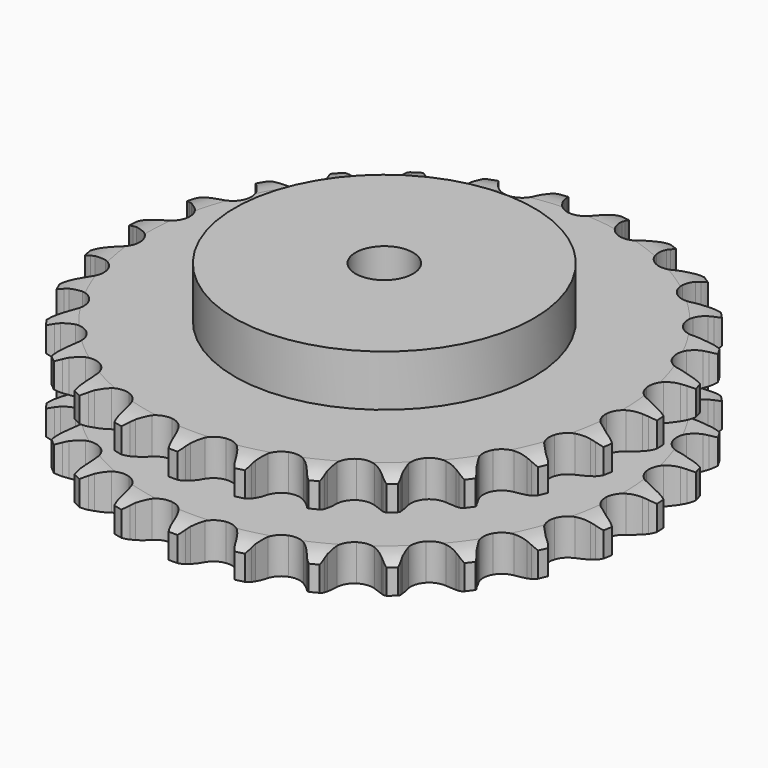
from build123d import *

# Parameters (mm, degrees)
PAD_DEPTH         = 47.7
SKETCH001_R       = 65
PAD001_DEPTH      = 70
SKETCH002_R       = 12.5
POCKET_DEPTH      = 0.0010001
POCKET_DEPTH_BACK = 70.001


with BuildPart() as part:
    # Sprocket → Pad (new body)
    with BuildSketch(Plane.XY):
        with BuildLine():
            ThreePointArc((-13.6413472436, 116.7091844985), (-11.482431054, 114.3511808054), (-9.9639848088, 111.5377449111))
            Line((-9.9639848088, 111.5377449111), (-9.1906695112, 109.5539148356))
            ThreePointArc((-9.1906695112, 109.5539148356), (-7.9619149576, 106.951852902), (-6.3845369677, 104.5451034891))
            ThreePointArc((-6.3845369677, 104.5451034891), (-3.5636031701, 102.2128059259), (0, 101.3773348857))
            ThreePointArc((0, 101.3773348857), (3.5636031701, 102.2128059259), (6.3845369677, 104.5451034891))
            ThreePointArc((6.3845369677, 104.5451034891), (7.9619149576, 106.951852902), (9.1906695112, 109.5539148356))
            Line((9.1906695112, 109.5539148356), (9.9639848088, 111.5377449111))
            ThreePointArc((9.9639848088, 111.5377449111), (11.482431054, 114.3511808054), (13.6413472436, 116.7091844985))
            ThreePointArc((13.6413472436, 116.7091844985), (15.198276493, 113.9168607632), (16.0269698546, 110.8290835946))
            Line((16.0269698546, 110.8290835946), (16.321937638, 108.7203891348))
            ThreePointArc((16.321937638, 108.7203891348), (16.917494175, 105.905095816), (17.8973191255, 103.1994522464))
            ThreePointArc((17.8973191255, 103.1994522464), (20.1043494541, 100.2794699619), (23.3792223582, 98.6446957036))
            ThreePointArc((23.3792223582, 98.6446957036), (27.0394410251, 98.6358230657), (30.3222010205, 100.2547011422))
            Line((30.3222010205, 100.2547011422), (34.2078052881, 104.4813606307))
            ThreePointArc((34.2078052881, 104.4813606307), (34.7902739113, 105.3729203788), (35.4177784721, 106.2333775291))
            ThreePointArc((35.4177784721, 106.2333775291), (37.5441177708, 108.6207990916), (40.1886331699, 110.4173621532))
            ThreePointArc((40.1886331699, 110.4173621532), (41.0596410203, 107.3412532709), (41.1539064247, 104.1455976944))
            Line((41.1539064247, 104.1455976944), (40.9546249044, 102.0257191144))
            ThreePointArc((40.9546249044, 102.0257191144), (40.8848768178, 99.1489676021), (41.2143261122, 96.2902918209))
            ThreePointArc((41.2143261122, 96.2902918209), (42.6884713955, 92.9400418158), (45.4980647876, 90.5940954428))
            ThreePointArc((45.4980647876, 90.5940954428), (49.0575756156, 89.7413574531), (52.6251873676, 90.5595419068))
            Line((52.6251873676, 90.5595419068), (57.3807894276, 93.7761892302))
            ThreePointArc((57.3807894276, 93.7761892302), (58.1531653612, 94.5093903612), (58.9621905304, 95.2019412669))
            ThreePointArc((58.9621905304, 95.2019412669), (61.5817913805, 97.0346419834), (64.5693394797, 98.1729112337))
            ThreePointArc((64.5693394797, 98.1729112337), (64.7074696723, 94.9788510306), (64.0622252471, 91.8475956654))
            Line((64.0622252471, 91.8475956654), (63.3794377414, 89.8308161682))
            ThreePointArc((63.3794377414, 89.8308161682), (62.6481451686, 87.047692881), (62.3094581102, 84.1900968396))
            ThreePointArc((62.3094581102, 84.1900968396), (62.9712467945, 80.5901919588), (65.1640947676, 77.6595440474))
            ThreePointArc((65.1640947676, 77.6595440474), (68.4310036065, 76.0089120316), (72.0911362422, 75.9822943267))
            Line((72.0911362422, 75.9822943267), (77.4603603565, 78.0155191953))
            ThreePointArc((77.4603603565, 78.0155191953), (78.3810046142, 78.5508346463), (79.3279356354, 79.038143709))
            ThreePointArc((79.3279356354, 79.038143709), (82.2995746771, 80.2173222094), (85.4690959849, 80.6359332584))
            ThreePointArc((85.4690959849, 80.6359332584), (84.8669018854, 77.4961143469), (83.5169329246, 74.5980659803))
            Line((83.5169329246, 74.5980659803), (82.3874486847, 72.7931106706))
            ThreePointArc((82.3874486847, 72.7931106706), (81.0340357975, 70.2536545052), (80.0454710933, 67.5511919458))
            ThreePointArc((80.0454710933, 67.5511919458), (79.8592259793, 63.8957039933), (81.3171115315, 60.5383465309))
            ThreePointArc((81.3171115315, 60.5383465309), (84.1152984802, 58.1788064882), (87.6706333019, 57.3088215922))
            Line((87.6706333019, 57.3088215922), (93.3640232088, 58.0490123269))
            ThreePointArc((93.3640232088, 58.0490123269), (94.3833036203, 58.3575831036), (95.417091197, 58.6133793654))
            ThreePointArc((95.417091197, 58.6133793654), (98.5805666005, 59.0754658316), (101.7611914027, 58.7518512494))
            ThreePointArc((101.7611914027, 58.7518512494), (100.4511374508, 55.8355420796), (98.4692211306, 53.3269352491))
            Line((98.4692211306, 53.3269352491), (96.9539309441, 51.8311097349))
            ThreePointArc((96.9539309441, 51.8311097349), (95.0513605817, 49.6722234305), (93.4662120107, 47.2705848092))
            ThreePointArc((93.4662120107, 47.2705848092), (92.4419736207, 43.7565820867), (93.0863017646, 40.1535110832))
            ThreePointArc((93.0863017646, 40.1535110832), (95.2649158405, 37.212266428), (98.5237838276, 35.5458154518))
            Line((98.5237838276, 35.5458154518), (104.2344074036, 34.9530681786))
            ThreePointArc((104.2344074036, 34.9530681786), (105.2973742979, 35.0182591505), (106.3622866744, 35.0287525688))
            ThreePointArc((106.3622866744, 35.0287525688), (109.5470546617, 34.7488357997), (112.5673146521, 33.7004417322))
            ThreePointArc((112.5673146521, 33.7004417322), (110.6200261955, 31.1648612863), (108.1130081376, 29.1809356355))
            Line((108.1130081376, 29.1809356355), (106.2936016908, 28.0748802574))
            ThreePointArc((106.2936016908, 28.0748802574), (103.9444419138, 26.4129499336), (101.8481652458, 24.4416082101))
            ThreePointArc((101.8481652458, 24.4416082101), (100.0411505366, 21.2585315139), (99.8371853751, 17.6039894596))
            ThreePointArc((99.8371853751, 17.6039894596), (101.2787769294, 14.2396034526), (104.0654916652, 11.8665251997))
            Line((104.0654916652, 11.8665251997), (109.4854877151, 9.9727950775))
            ThreePointArc((109.4854877151, 9.9727950775), (110.534836272, 9.7910917824), (111.5734637463, 9.5557166543))
            ThreePointArc((111.5734637463, 9.5557166543), (114.6078326509, 8.5488870355), (117.3049048316, 6.8322326781))
            ThreePointArc((117.3049048316, 6.8322326781), (114.8253606951, 4.8140747544), (111.9283948919, 3.4617842286))
            Line((111.9283948919, 3.4617842286), (109.9029568572, 2.8051267184))
            ThreePointArc((109.9029568572, 2.8051267184), (107.2338514773, 1.729747469), (104.7394575301, 0.2949781859))
            ThreePointArc((104.7394575301, 0.2949781859), (102.2470831323, -2.3855719954), (101.2058204802, -5.8945677923))
            ThreePointArc((101.2058204802, -5.8945677923), (101.832672939, -9.5007202306), (103.9970019108, -12.4524924975))
            Line((103.9970019108, -12.4524924975), (108.8341770447, -15.5451139875))
            ThreePointArc((108.8341770447, -15.5451139875), (109.8133366118, -15.963915878), (110.769686508, -16.4324704185))
            ThreePointArc((110.769686508, -16.4324704185), (113.4900727168, -18.1119344417), (115.7185572285, -20.404303808))
            ThreePointArc((115.7185572285, -20.404303808), (112.8404302781, -21.7962397937), (109.709692906, -22.4439928621))
            Line((109.709692906, -22.4439928621), (107.5874151722, -22.6158519282))
            ThreePointArc((107.5874151722, -22.6158519282), (104.7422563512, -23.0467061294), (101.9842185482, -23.8675541887))
            ThreePointArc((101.9842185482, -23.8675541887), (98.9408490107, -25.901068701), (97.118423607, -29.0753473688))
            ThreePointArc((97.118423607, -29.0753473688), (96.8967431921, -32.7288576271), (98.3220068648, -36.1001931009))
            Line((98.3220068648, -36.1001931009), (102.315587719, -40.2249819339))
            ThreePointArc((102.315587719, -40.2249819339), (103.1717715507, -40.8583047013), (103.9942867983, -41.5347787575))
            ThreePointArc((103.9942867983, -41.5347787575), (106.2540335868, -43.7963368449), (107.8937922525, -46.5408389945))
            ThreePointArc((107.8937922525, -46.5408389945), (104.7722430572, -47.2315134127), (101.5765129783, -47.1398084882))
            Line((101.5765129783, -47.1398084882), (99.4718080873, -46.8176041434))
            ThreePointArc((99.4718080873, -46.8176041434), (96.6039790737, -46.580705835), (93.7309839467, -46.7433805391))
            ThreePointArc((93.7309839467, -46.7433805391), (90.300688109, -48.0202320886), (87.795347379, -50.6886674428))
            ThreePointArc((87.795347379, -50.6886674428), (86.7370849389, -54.1925738373), (87.346446979, -57.80172295))
            Line((87.346446979, -57.80172295), (90.2811385761, -62.7363106923))
            ThreePointArc((90.2811385761, -62.7363106923), (90.9681895803, -63.5500117424), (91.6125281694, -64.3979364229))
            ThreePointArc((91.6125281694, -64.3979364229), (93.2898120032, -67.1196673927), (94.2524450089, -70.1683455041))
            ThreePointArc((94.2524450089, -70.1683455041), (91.0557570938, -70.1205239182), (87.9673169438, -69.294304837))
            Line((87.9673169438, -69.294304837), (85.993650081, -68.4954072009))
            ThreePointArc((85.993650081, -68.4954072009), (83.2577562794, -67.603527632), (80.4246877393, -67.0992591455))
            ThreePointArc((80.4246877393, -67.0992591455), (76.792393738, -67.5506123348), (73.7392012488, -69.5693483347))
            ThreePointArc((73.7392012488, -69.5693483347), (71.9014079856, -72.7347543648), (71.6620175277, -76.3871469535))
            Line((71.6620175277, -76.3871469535), (73.3796098841, -81.8655087025))
            ThreePointArc((73.3796098841, -81.8655087025), (73.8604889633, -82.8157212012), (74.2919144339, -83.789384667))
            ThreePointArc((74.2919144339, -83.789384667), (75.2963125073, -86.824559298), (75.5299240585, -90.0130583451))
            ThreePointArc((75.5299240585, -90.0130583451), (72.4304316966, -89.2293188293), (69.6157800833, -87.7131272759))
            Line((69.6157800833, -87.7131272759), (67.8795521403, -86.4806051269))
            ThreePointArc((67.8795521403, -86.4806051269), (65.4230862935, -84.9818257558), (62.7826757987, -83.8377993235))
            ThreePointArc((62.7826757987, -83.8377993235), (59.1442015435, -83.4393215852), (55.7077556926, -84.6995276505))
            ThreePointArc((55.7077556926, -84.6995276505), (53.1895075167, -87.3557854577), (52.1142701625, -90.8545200926))
            Line((52.1142701625, -90.8545200926), (52.5221674297, -96.5813159486))
            ThreePointArc((52.5221674297, -96.5813159486), (52.7709502683, -97.6168136939), (52.9662043616, -98.6637254955))
            ThreePointArc((52.9662043616, -98.6637254955), (53.2435693145, -101.8487167378), (52.735565352, -105.0051439118))
            ThreePointArc((52.735565352, -105.0051439118), (49.9003629787, -103.5277380661), (47.5112384992, -101.4033123197))
            Line((47.5112384992, -101.4033123197), (46.1060499737, -99.8036112458))
            ThreePointArc((46.1060499737, -99.8036112458), (44.0614407915, -97.7787316564), (41.756033555, -96.0566220392))
            ThreePointArc((41.756033555, -96.0566220392), (38.3075301349, -94.8297954114), (34.6730906076, -95.263533507))
            ThreePointArc((34.6730906076, -95.263533507), (31.6101469301, -97.2674435454), (29.7570290036, -100.4239025368))
            Line((29.7570290036, -100.4239025368), (28.8332413343, -106.0903994527))
            ThreePointArc((28.8332413343, -106.0903994527), (28.8365159851, -107.1553584932), (28.7850725022, -108.2190793445))
            ThreePointArc((28.7850725022, -108.2190793445), (28.3204515184, -111.3821834958), (27.0982186672, -114.3363749906))
            ThreePointArc((27.0982186672, -114.3363749906), (24.6801527763, -112.2449501467), (22.8453537498, -109.626818549))
            Line((22.8453537498, -109.626818549), (21.8469587189, -107.7461788492))
            ThreePointArc((21.8469587189, -107.7461788492), (20.3244316114, -105.3043608244), (18.4783127343, -103.0970073976))
            ThreePointArc((18.4783127343, -103.0970073976), (15.4056898612, -101.1079704213), (11.7691902331, -100.6918576141))
            ThreePointArc((11.7691902331, -100.6918576141), (8.3266751405, -101.9353885749), (5.7955787088, -104.5794064014))
            Line((5.7955787088, -104.5794064014), (3.5899077353, -109.8801220618))
            ThreePointArc((3.5899077353, -109.8801220618), (3.3474976611, -110.9171301801), (3.0521299336, -111.9403146145))
            ThreePointArc((3.0521299336, -111.9403146145), (1.8705708504, -114.9110079113), (0, -117.5037024988))
            ThreePointArc((0, -117.5037024988), (-1.8705708504, -114.9110079113), (-3.0521299336, -111.9403146145))
            Line((-3.0521299336, -111.9403146145), (-3.5899077353, -109.8801220618))
            ThreePointArc((-3.5899077353, -109.8801220618), (-4.5082729375, -107.1530046433), (-5.7955787088, -104.5794064014))
            ThreePointArc((-5.7955787088, -104.5794064014), (-8.3266751405, -101.9353885749), (-11.7691902331, -100.6918576141))
            ThreePointArc((-11.7691902331, -100.6918576141), (-15.4056898612, -101.1079704213), (-18.4783127343, -103.0970073976))
            Line((-18.4783127343, -103.0970073976), (-21.8469587189, -107.7461788492))
            ThreePointArc((-21.8469587189, -107.7461788492), (-22.3219851284, -108.6993306691), (-22.8453537498, -109.626818549))
            ThreePointArc((-22.8453537498, -109.626818549), (-24.6801527763, -112.2449501467), (-27.0982186672, -114.3363749906))
            ThreePointArc((-27.0982186672, -114.3363749906), (-28.3204515184, -111.3821834958), (-28.7850725022, -108.2190793445))
            Line((-28.7850725022, -108.2190793445), (-28.8332413343, -106.0903994527))
            ThreePointArc((-28.8332413343, -106.0903994527), (-29.0979353255, -103.2250022463), (-29.7570290036, -100.4239025368))
            ThreePointArc((-29.7570290036, -100.4239025368), (-31.6101469301, -97.2674435454), (-34.6730906076, -95.263533507))
            ThreePointArc((-34.6730906076, -95.263533507), (-38.3075301349, -94.8297954114), (-41.756033555, -96.0566220392))
            Line((-41.756033555, -96.0566220392), (-46.1060499737, -99.8036112458))
            ThreePointArc((-46.1060499737, -99.8036112458), (-46.7880839217, -100.6215221059), (-47.5112384992, -101.4033123197))
            ThreePointArc((-47.5112384992, -101.4033123197), (-49.9003629787, -103.5277380661), (-52.735565352, -105.0051439118))
            ThreePointArc((-52.735565352, -105.0051439118), (-53.2435693145, -101.8487167378), (-52.9662043616, -98.6637254955))
            Line((-52.9662043616, -98.6637254955), (-52.5221674297, -96.5813159486))
            ThreePointArc((-52.5221674297, -96.5813159486), (-52.1189204884, -93.7321132595), (-52.1142701625, -90.8545200926))
            ThreePointArc((-52.1142701625, -90.8545200926), (-53.1895075167, -87.3557854577), (-55.7077556926, -84.6995276505))
            ThreePointArc((-55.7077556926, -84.6995276505), (-59.1442015435, -83.4393215852), (-62.7826757987, -83.8377993235))
            Line((-62.7826757987, -83.8377993235), (-67.8795521403, -86.4806051269))
            ThreePointArc((-67.8795521403, -86.4806051269), (-68.7318250001, -87.1191812411), (-69.6157800833, -87.7131272759))
            ThreePointArc((-69.6157800833, -87.7131272759), (-72.4304316966, -89.2293188293), (-75.5299240585, -90.0130583451))
            ThreePointArc((-75.5299240585, -90.0130583451), (-75.2963125073, -86.824559298), (-74.2919144339, -83.789384667))
            Line((-74.2919144339, -83.789384667), (-73.3796098841, -81.8655087025))
            ThreePointArc((-73.3796098841, -81.8655087025), (-72.3301611572, -79.1861017852), (-71.6620175277, -76.3871469535))
            ThreePointArc((-71.6620175277, -76.3871469535), (-71.9014079856, -72.7347543648), (-73.7392012488, -69.5693483347))
            ThreePointArc((-73.7392012488, -69.5693483347), (-76.792393738, -67.5506123348), (-80.4246877393, -67.0992591455))
            Line((-80.4246877393, -67.0992591455), (-85.993650081, -68.4954072009))
            ThreePointArc((-85.993650081, -68.4954072009), (-86.9702156022, -68.9202227657), (-87.9673169438, -69.294304837))
            ThreePointArc((-87.9673169438, -69.294304837), (-91.0557570938, -70.1205239182), (-94.2524450089, -70.1683455041))
            ThreePointArc((-94.2524450089, -70.1683455041), (-93.2898120032, -67.1196673927), (-91.6125281694, -64.3979364229))
            Line((-91.6125281694, -64.3979364229), (-90.2811385761, -62.7363106923))
            ThreePointArc((-90.2811385761, -62.7363106923), (-88.6420641161, -60.371147067), (-87.346446979, -57.80172295))
            ThreePointArc((-87.346446979, -57.80172295), (-86.7370849389, -54.1925738373), (-87.795347379, -50.6886674428))
            ThreePointArc((-87.795347379, -50.6886674428), (-90.300688109, -48.0202320886), (-93.7309839467, -46.7433805391))
            Line((-93.7309839467, -46.7433805391), (-99.4718080873, -46.8176041434))
            ThreePointArc((-99.4718080873, -46.8176041434), (-100.5200193699, -47.0057572416), (-101.5765129783, -47.1398084882))
            ThreePointArc((-101.5765129783, -47.1398084882), (-104.7722430572, -47.2315134127), (-107.8937922525, -46.5408389945))
            ThreePointArc((-107.8937922525, -46.5408389945), (-106.2540335868, -43.7963368449), (-103.9942867983, -41.5347787575))
            Line((-103.9942867983, -41.5347787575), (-102.315587719, -40.2249819339))
            ThreePointArc((-102.315587719, -40.2249819339), (-100.1752504544, -38.301568184), (-98.3220068648, -36.1001931009))
            ThreePointArc((-98.3220068648, -36.1001931009), (-96.8967431921, -32.7288576271), (-97.118423607, -29.0753473688))
            ThreePointArc((-97.118423607, -29.0753473688), (-98.9408490107, -25.901068701), (-101.9842185482, -23.8675541887))
            Line((-101.9842185482, -23.8675541887), (-107.5874151722, -22.6158519282))
            ThreePointArc((-107.5874151722, -22.6158519282), (-108.6507628746, -22.5571991776), (-109.709692906, -22.4439928621))
            ThreePointArc((-109.709692906, -22.4439928621), (-112.8404302781, -21.7962397937), (-115.7185572285, -20.404303808))
            ThreePointArc((-115.7185572285, -20.404303808), (-113.4900727168, -18.1119344417), (-110.769686508, -16.4324704185))
            Line((-110.769686508, -16.4324704185), (-108.8341770447, -15.5451139875))
            ThreePointArc((-108.8341770447, -15.5451139875), (-106.3079631113, -14.1671418463), (-103.9970019108, -12.4524924975))
            ThreePointArc((-103.9970019108, -12.4524924975), (-101.832672939, -9.5007202306), (-101.2058204802, -5.8945677923))
            ThreePointArc((-101.2058204802, -5.8945677923), (-102.2470831323, -2.3855719954), (-104.7394575301, 0.2949781859))
            Line((-104.7394575301, 0.2949781859), (-109.9029568572, 2.8051267184))
            ThreePointArc((-109.9029568572, 2.8051267184), (-110.9241156296, 3.1074233327), (-111.9283948919, 3.4617842286))
            ThreePointArc((-111.9283948919, 3.4617842286), (-114.8253606951, 4.8140747544), (-117.3049048316, 6.8322326781))
            ThreePointArc((-117.3049048316, 6.8322326781), (-114.6078326509, 8.5488870355), (-111.5734637463, 9.5557166543))
            Line((-111.5734637463, 9.5557166543), (-109.4854877151, 9.9727950775))
            ThreePointArc((-109.4854877151, 9.9727950775), (-106.70958596, 10.7310387755), (-104.0654916652, 11.8665251997))
            ThreePointArc((-104.0654916652, 11.8665251997), (-101.2787769294, 14.2396034526), (-99.8371853751, 17.6039894596))
            ThreePointArc((-99.8371853751, 17.6039894596), (-100.0411505366, 21.2585315139), (-101.8481652458, 24.4416082101))
            Line((-101.8481652458, 24.4416082101), (-106.2936016908, 28.0748802574))
            ThreePointArc((-106.2936016908, 28.0748802574), (-107.2175205993, 28.6045238469), (-108.1130081376, 29.1809356355))
            ThreePointArc((-108.1130081376, 29.1809356355), (-110.6200261955, 31.1648612863), (-112.5673146521, 33.7004417322))
            ThreePointArc((-112.5673146521, 33.7004417322), (-109.5470546617, 34.7488357997), (-106.3622866744, 35.0287525688))
            Line((-106.3622866744, 35.0287525688), (-104.2344074036, 34.9530681786))
            ThreePointArc((-104.2344074036, 34.9530681786), (-101.3584674089, 35.0507063192), (-98.5237838276, 35.5458154518))
            ThreePointArc((-98.5237838276, 35.5458154518), (-95.2649158405, 37.212266428), (-93.0863017646, 40.1535110832))
            ThreePointArc((-93.0863017646, 40.1535110832), (-92.4419736207, 43.7565820867), (-93.4662120107, 47.2705848092))
            Line((-93.4662120107, 47.2705848092), (-96.9539309441, 51.8311097349))
            ThreePointArc((-96.9539309441, 51.8311097349), (-97.7308012813, 52.5595470764), (-98.4692211306, 53.3269352491))
            ThreePointArc((-98.4692211306, 53.3269352491), (-100.4511374508, 55.8355420796), (-101.7611914027, 58.7518512494))
            ThreePointArc((-101.7611914027, 58.7518512494), (-98.5805666005, 59.0754658316), (-95.417091197, 58.6133793654))
            Line((-95.417091197, 58.6133793654), (-93.3640232088, 58.0490123269))
            ThreePointArc((-93.3640232088, 58.0490123269), (-90.5430876441, 57.4807812127), (-87.6706333019, 57.3088215922))
            ThreePointArc((-87.6706333019, 57.3088215922), (-84.1152984802, 58.1788064882), (-81.3171115315, 60.5383465309))
            ThreePointArc((-81.3171115315, 60.5383465309), (-79.8592259793, 63.8957039933), (-80.0454710933, 67.5511919458))
            Line((-80.0454710933, 67.5511919458), (-82.3874486847, 72.7931106706))
            ThreePointArc((-82.3874486847, 72.7931106706), (-82.9753891696, 73.6810715186), (-83.5169329246, 74.5980659803))
            ThreePointArc((-83.5169329246, 74.5980659803), (-84.8669018854, 77.4961143469), (-85.4690959849, 80.6359332584))
            ThreePointArc((-85.4690959849, 80.6359332584), (-82.2995746771, 80.2173222094), (-79.3279356354, 79.038143709))
            Line((-79.3279356354, 79.038143709), (-77.4603603565, 78.0155191953))
            ThreePointArc((-77.4603603565, 78.0155191953), (-74.8465065883, 76.8120523127), (-72.0911362422, 75.9822943267))
            ThreePointArc((-72.0911362422, 75.9822943267), (-68.4310036065, 76.0089120316), (-65.1640947676, 77.6595440474))
            ThreePointArc((-65.1640947676, 77.6595440474), (-62.9712467945, 80.5901919588), (-62.3094581102, 84.1900968396))
            Line((-62.3094581102, 84.1900968396), (-63.3794377414, 89.8308161682))
            ThreePointArc((-63.3794377414, 89.8308161682), (-63.7467523503, 90.8304303235), (-64.0622252471, 91.8475956654))
            ThreePointArc((-64.0622252471, 91.8475956654), (-64.7074696723, 94.9788510306), (-64.5693394797, 98.1729112337))
            ThreePointArc((-64.5693394797, 98.1729112337), (-61.5817913805, 97.0346419834), (-58.9621905304, 95.2019412669))
            Line((-58.9621905304, 95.2019412669), (-57.3807894276, 93.7761892302))
            ThreePointArc((-57.3807894276, 93.7761892302), (-55.1149309889, 92.0023657905), (-52.6251873676, 90.5595419068))
            ThreePointArc((-52.6251873676, 90.5595419068), (-49.0575756156, 89.7413574531), (-45.4980647876, 90.5940954428))
            ThreePointArc((-45.4980647876, 90.5940954428), (-42.6884713955, 92.9400418158), (-41.2143261122, 96.2902918209))
            Line((-41.2143261122, 96.2902918209), (-40.9546249044, 102.0257191144))
            ThreePointArc((-40.9546249044, 102.0257191144), (-41.0815116117, 103.0830971191), (-41.1539064247, 104.1455976944))
            ThreePointArc((-41.1539064247, 104.1455976944), (-41.0596410203, 107.3412532709), (-40.1886331699, 110.4173621532))
            ThreePointArc((-40.1886331699, 110.4173621532), (-37.5441177708, 108.6207990916), (-35.4177784721, 106.2333775291))
            Line((-35.4177784721, 106.2333775291), (-34.2078052881, 104.4813606307))
            ThreePointArc((-34.2078052881, 104.4813606307), (-32.412095194, 102.2328079146), (-30.3222010205, 100.2547011422))
            ThreePointArc((-30.3222010205, 100.2547011422), (-27.0394410251, 98.6358230657), (-23.3792223582, 98.6446957036))
            ThreePointArc((-23.3792223582, 98.6446957036), (-20.1043494541, 100.2794699619), (-17.8973191255, 103.1994522464))
            Line((-17.8973191255, 103.1994522464), (-16.321937638, 108.7203891348))
            ThreePointArc((-16.321937638, 108.7203891348), (-16.2015559484, 109.778527467), (-16.0269698546, 110.8290835946))
            ThreePointArc((-16.0269698546, 110.8290835946), (-15.198276493, 113.9168607632), (-13.6413472436, 116.7091844985))
        make_face()
    extrude(amount=PAD_DEPTH)

    # Sketch → Groove (revolve, cut)
    with BuildSketch(Plane.XZ):
        with BuildLine():
            ThreePointArc((103.6757022694, 0), (109.3765793949, 0.6326982121), (114.8, 2.5))
            Line((114.8, 2.5), (114.8, 13.3))
            ThreePointArc((114.8, 13.3), (109.3765793949, 15.1673017879), (103.6757022694, 15.8))
            Line((65, 15.8), (103.6757022694, 15.8))
            Line((65, 31.9), (65, 15.8))
            Line((103.6757022694, 31.9), (65, 31.9))
            ThreePointArc((103.6757022694, 31.9), (109.3765793949, 32.5326982121), (114.8, 34.4))
            Line((114.8, 34.4), (114.8, 45.2))
            ThreePointArc((114.8, 45.2), (109.3765793949, 47.0673017879), (103.6757022694, 47.7))
            Line((103.6757022694, 47.7), (124.8, 47.7))
            Line((124.8, 47.7), (124.8, 0))
            Line((103.6757022694, 0), (124.8, 0))
        make_face()
    revolve(axis=Axis((0, 0, 0), (0, 0, 1)), mode=Mode.SUBTRACT)

    # Sketch001 → Pad001 (join)
    with BuildSketch(Plane.XY):
        Circle(SKETCH001_R)
    extrude(amount=PAD001_DEPTH)

    # Sketch002 → Pocket (cut, two sides)
    with BuildSketch(Plane.XY) as pocket_sk:
        Circle(SKETCH002_R)
    extrude(amount=-POCKET_DEPTH, mode=Mode.SUBTRACT)
    extrude(pocket_sk.sketch, amount=POCKET_DEPTH_BACK, mode=Mode.SUBTRACT)


solid = part.part
